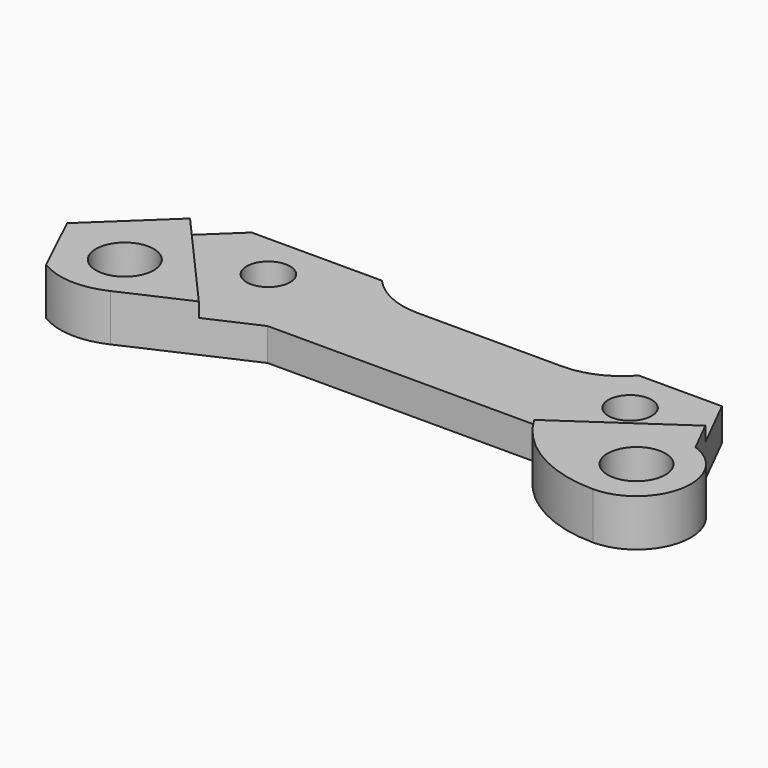
from build123d import *

# Parameters (mm, degrees)
F0_R     = 8
F0_R_2   = 6
F1_DEPTH = 13
F3_DEPTH = 4
F5_DEPTH = 9


with BuildPart() as f1:
    # F0 (on Top) → F1 (new body)
    with BuildSketch(Plane.XY):
        with BuildLine():
            Line((-65, 13), (-94.05416, -14.492831))
            Line((-94.05416, -14.492831), (-85.42607, -32.536003))
            ThreePointArc((-85.42607, -32.536003), (-76.272502, -35.298433), (-66.902429, -33.39566))
            Line((-66.902429, -33.39566), (-35, -19))
            Line((-35, -19), (40, -19))
            ThreePointArc((40, -19), (52.865463, -34.739066), (72.314561, -40.652687))
            ThreePointArc((72.314561, -40.652687), (87.09854, -28.189217), (77.314561, -11.510551))
            Line((77.314561, -11.510551), (65, 13))
            Line((65, 13), (-65, 13))
        make_face()
        with Locations((-73.685439, -20)):
            Circle(F0_R, mode=Mode.SUBTRACT)
        with Locations((72.314561, -25.652687)):
            Circle(F0_R, mode=Mode.SUBTRACT)
        with Locations((-50, 0)):
            Circle(F0_R_2, mode=Mode.SUBTRACT)
        with Locations((50, 0)):
            Circle(F0_R_2, mode=Mode.SUBTRACT)
    extrude(amount=F1_DEPTH)

    # F2 (on face) → F3 (cut)
    with BuildSketch(Plane.XY.offset(13)):
        Polygon((112.536557, 25), (-93.432012, 25), (-15.672001, -63), align=None)
    extrude(amount=-F3_DEPTH, mode=Mode.SUBTRACT)

    # F4 (on face) → F5 (cut, through all)
    with BuildSketch(Plane.XY.offset(9)):
        with BuildLine():
            Line((42, 13), (-29, 13))
            ThreePointArc((-29, 13), (-22.003676, 7.831147), (-13.5, 6))
            Line((-13.5, 6), (26.5, 6))
            ThreePointArc((26.5, 6), (35.003676, 7.831147), (42, 13))
        make_face()
    extrude(amount=-F5_DEPTH, mode=Mode.SUBTRACT)


solid = f1.part
